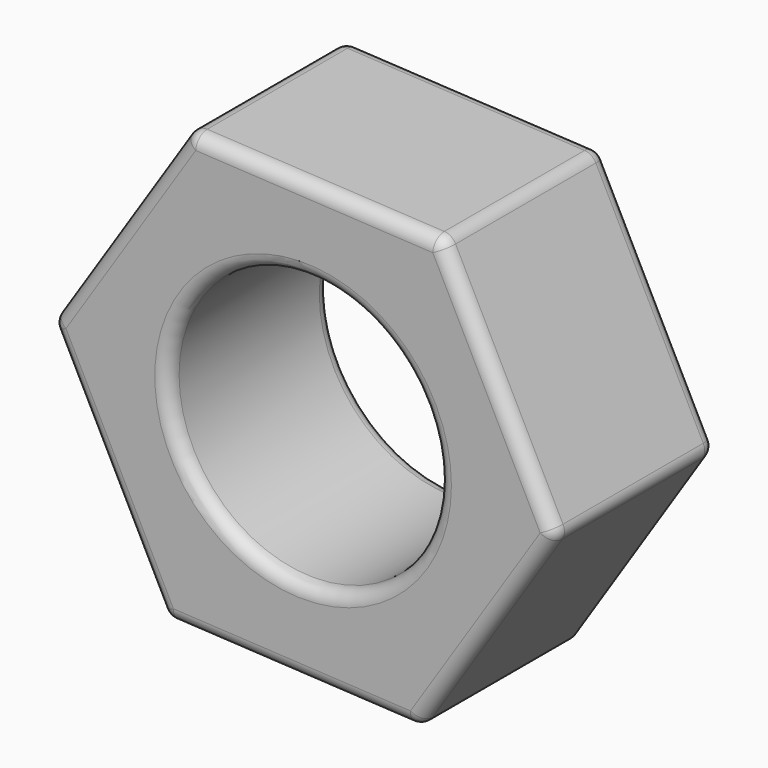
from build123d import *

# Parameters (mm, degrees)
F1_DEPTH = 6
F2_R     = 4
F3_DEPTH = 6
F4_R     = 0.4


with BuildPart() as f1:
    # F0 (on Front) → F1 (new body)
    with BuildSketch(Plane.XZ):
        Polygon((3.3950570152, -6.6937972181), (7.4945269462, -0.4066929865), (4.099469931, 6.2871042315), (-3.3950570152, 6.6937972181), (-7.4945269462, 0.4066929865), (-4.099469931, -6.2871042315), align=None)
    extrude(amount=F1_DEPTH)

    # F2 (on face) → F3 (intersect)
    with BuildSketch(Plane.XZ.offset(6)):
        Polygon((-7.4945269462, 0.4066929865), (-4.099469931, -6.2871042315), (3.3950570152, -6.6937972181), (7.4945269462, -0.4066929865), (4.099469931, 6.2871042315), (-3.3950570152, 6.6937972181), align=None)
        Circle(F2_R, mode=Mode.SUBTRACT)
    extrude(amount=-F3_DEPTH, mode=Mode.INTERSECT)

    # F4
    f4_edges = [f1.edges().sort_by_distance(p)[0] for p in [
        (-7.494527, -3, 0.406693),
        (-4.09947, -3, -6.287104),
        (-5.796998, 0, -2.940206),
        (-5.796998, -6, -2.940206),
        (3.395057, -3, -6.693797),
        (-0.352206, 0, -6.490451),
        (-0.352206, -6, -6.490451),
        (-3.395057, -3, 6.693797),
        (-5.444792, 0, 3.550245),
        (-5.444792, -6, 3.550245),
        (4.09947, -3, 6.287104),
        (0.352206, 0, 6.490451),
        (0.352206, -6, 6.490451),
        (7.494527, -3, -0.406693),
        (5.796998, 0, 2.940206),
        (5.796998, -6, 2.940206),
        (5.444792, 0, -3.550245),
        (5.444792, -6, -3.550245),
        (-4, -6, 0),
        (-4, 0, 0),
    ]]
    fillet(f4_edges, radius=F4_R)


solid = f1.part
